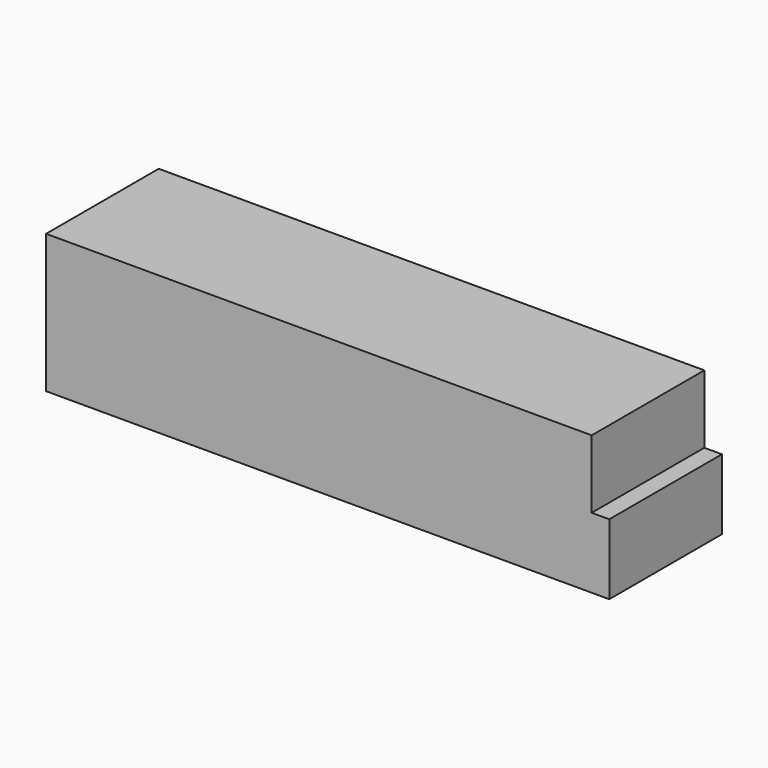
from build123d import *

# Parameters (mm, degrees)
F0_W     = 98.425
F0_H     = 25.4
F1_DEPTH = 25
F0_W_2   = 3.175
F2_DEPTH = 12.7


with BuildPart() as f1:
    # F0 (on Top) → F1 (new body)
    with BuildSketch(Plane.XY):
        with Locations((49.2125, -12.7)):
            Rectangle(F0_W, F0_H)
    extrude(amount=F1_DEPTH)

    # F0 (on Top) → F2 (join)
    with BuildSketch(Plane.XY):
        with Locations((100.0125, -12.7)):
            Rectangle(F0_W_2, F0_H)
    extrude(amount=F2_DEPTH)


solid = f1.part
